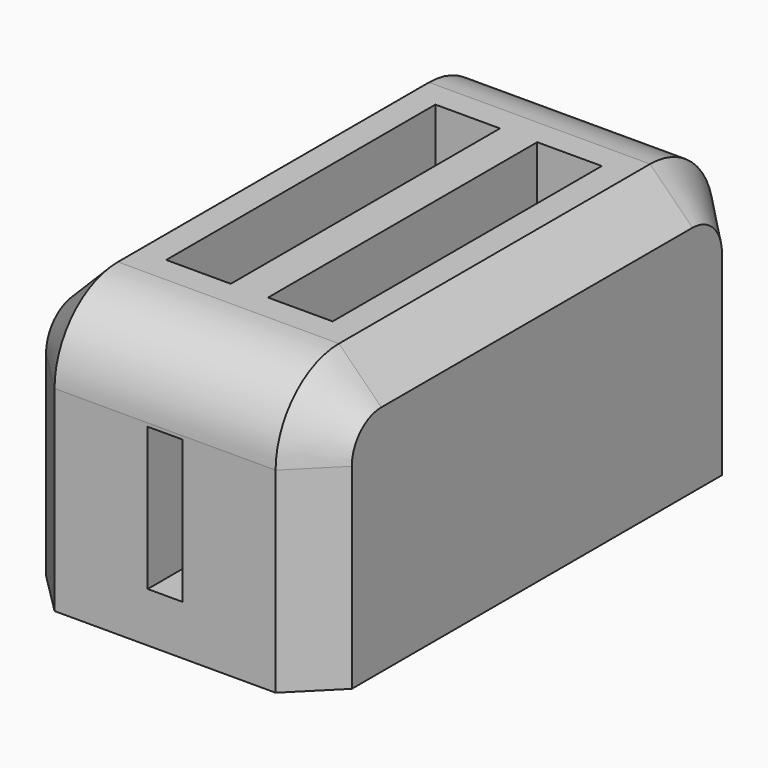
from build123d import *

# Parameters (mm, degrees)
F0_W     = 73.3732283115
F0_H     = 131.3513368368
F1_DEPTH = 66.04
F2_R     = 19.0095175901
F3_SIZE  = 10.16
F4_W     = 15.4954213649
F4_H     = 80.7549729943
F5_DEPTH = 59.436
F7_START = -19.812
F6_W     = 8.3436891437
F6_H     = 37.5465899706
F7_DEPTH = 34.29


with BuildPart() as f1:
    # F0 (on Top) → F1 (new body)
    with BuildSketch(Plane.XY):
        Rectangle(F0_W, F0_H)
    extrude(amount=F1_DEPTH)

    # F2
    f2_edges = [f1.edges().sort_by_distance(p)[0] for p in [
        (0, 65.675668, 66.04),
        (0, -65.675668, 66.04),
    ]]
    fillet(f2_edges, radius=F2_R)

    # F3
    f3_edges = [f1.edges().sort_by_distance(p)[0] for p in [
        (-36.686614, 0, 66.04),
        (-36.686614, 60.10791, 60.472241),
        (-36.686614, 65.675668, 23.515241),
        (-36.686614, -60.10791, 60.472241),
        (-36.686614, -65.675668, 23.515241),
        (36.686614, 0, 66.04),
        (36.686614, 60.10791, 60.472241),
        (36.686614, 65.675668, 23.515241),
        (36.686614, -60.10791, 60.472241),
        (36.686614, -65.675668, 23.515241),
    ]]
    chamfer(f3_edges, length=F3_SIZE)

    # F4 (on face) → F5 (cut)
    with BuildSketch(Plane.XY.offset(66.04)):
        with Locations((12.2175393626, 0)):
            Rectangle(F4_W, F4_H)
        with Locations((-12.2175393626, 0)):
            Rectangle(F4_W, F4_H)
    extrude(amount=-F5_DEPTH, mode=Mode.SUBTRACT)

    # F6 (on face) → F7 (cut)
    with BuildSketch(Plane.XY.offset(66.04).offset(F7_START)):
        with Locations((0, -74.0502253175)):
            Rectangle(F6_W, F6_H)
    extrude(amount=-F7_DEPTH, mode=Mode.SUBTRACT)


solid = f1.part
